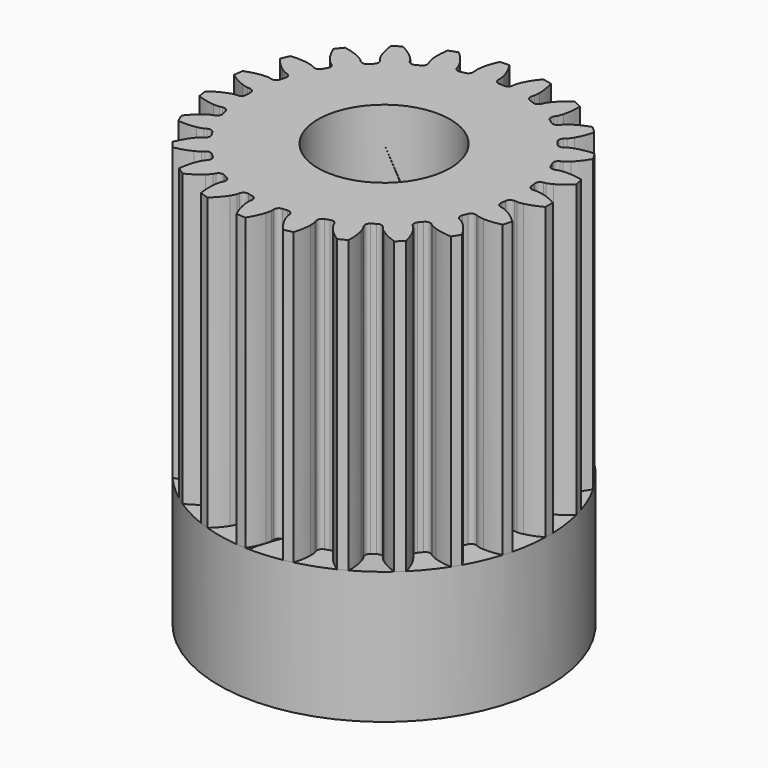
from build123d import *

# Parameters (mm, degrees)
PAD003_DEPTH         = 11
SKETCH005_R          = 6.25
PAD005_DEPTH         = 5
SKETCH003_R          = 2.5
POCKET003_DEPTH      = 16.001
POCKET003_DEPTH_BACK = 0.001
SKETCH006_R          = 1.5
POCKET004_DEPTH      = 6.251


with BuildPart() as part:
    # InvoluteGear002 → Pad003 (new body)
    with BuildSketch(Plane.XY.offset(-11)):
        with BuildLine():
            Line((5.296615, -0.441697), (5.393928, -0.449437))
            add(Edge.make_bspline(
                [(5.393928, -0.449437), (5.418724, -0.450045), (5.493399, -0.448978), (5.617857, -0.422456)],
                knots=[0, 0, 0, 0, 1, 1, 1, 1], degree=3))
            add(Edge.make_bspline(
                [(5.617857, -0.422456), (5.766875, -0.390268), (5.981788, -0.321885), (6.248006, -0.177523)],
                knots=[0, 0, 0, 0, 1, 1, 1, 1], degree=3))
            ThreePointArc((6.248006, -0.177523), (6.250264, 0.000101), (6.247473, 0.177717))
            add(Edge.make_bspline(
                [(6.247473, 0.177717), (5.981788, 0.321885), (5.766875, 0.390268), (5.617857, 0.422456)],
                knots=[0, 0, 0, 0, 1, 1, 1, 1], degree=3))
            add(Edge.make_bspline(
                [(5.617857, 0.422456), (5.493399, 0.448978), (5.418724, 0.450045), (5.393928, 0.449437)],
                knots=[0, 0, 0, 0, 1, 1, 1, 1], degree=3))
            Line((5.393928, 0.449437), (5.296615, 0.441697))
            ThreePointArc((5.296615, 0.441697), (5.15869, 0.482412), (5.088796, 0.608093))
            ThreePointArc((5.088796, 0.608093), (5.077265, 0.697854), (5.064152, 0.787397))
            ThreePointArc((5.064152, 0.787397), (5.097545, 0.927275), (5.21937, 1.003692))
            Line((5.21937, 1.003692), (5.315163, 1.022494))
            add(Edge.make_bspline(
                [(5.315163, 1.022494), (5.339203, 1.028598), (5.410822, 1.049773), (5.523509, 1.10889)],
                knots=[0, 0, 0, 0, 1, 1, 1, 1], degree=3))
            add(Edge.make_bspline(
                [(5.523509, 1.10889), (5.658317, 1.180089), (5.846811, 1.303918), (6.064208, 1.514751)],
                knots=[0, 0, 0, 0, 1, 1, 1, 1], degree=3))
            ThreePointArc((6.064208, 1.514751), (6.01846, 1.686398), (5.967852, 1.856675))
            add(Edge.make_bspline(
                [(5.967852, 1.856675), (5.673124, 1.923816), (5.447731, 1.93168), (5.295555, 1.92247)],
                knots=[0, 0, 0, 0, 1, 1, 1, 1], degree=3))
            add(Edge.make_bspline(
                [(5.295555, 1.92247), (5.168556, 1.91443), (5.096362, 1.89531), (5.07265, 1.888035)],
                knots=[0, 0, 0, 0, 1, 1, 1, 1], degree=3))
            Line((5.07265, 1.888035), (4.981033, 1.854328))
            ThreePointArc((4.981033, 1.854328), (4.837238, 1.85632), (4.736028, 1.958484))
            ThreePointArc((4.736028, 1.958484), (4.700708, 2.041806), (4.663922, 2.12449))
            ThreePointArc((4.663922, 2.12449), (4.658338, 2.26819), (4.755029, 2.374641))
            Line((4.755029, 2.374641), (4.842197, 2.418591))
            add(Edge.make_bspline(
                [(4.842197, 2.418591), (4.863699, 2.430955), (4.926948, 2.470667), (5.019508, 2.557994)],
                knots=[0, 0, 0, 0, 1, 1, 1, 1], degree=3))
            add(Edge.make_bspline(
                [(5.019508, 2.557994), (5.130107, 2.662923), (5.278203, 2.833016), (5.430656, 3.094684)],
                knots=[0, 0, 0, 0, 1, 1, 1, 1], degree=3))
            ThreePointArc((5.430656, 3.094684), (5.340294, 3.247623), (5.245623, 3.397931))
            add(Edge.make_bspline(
                [(5.245623, 3.397931), (4.94371, 3.383066), (4.724553, 3.329828), (4.580505, 3.279903)],
                knots=[0, 0, 0, 0, 1, 1, 1, 1], degree=3))
            add(Edge.make_bspline(
                [(4.580505, 3.279903), (4.460385, 3.237897), (4.396027, 3.200009), (4.375157, 3.186606)],
                knots=[0, 0, 0, 0, 1, 1, 1, 1], degree=3))
            Line((4.375157, 3.186606), (4.296032, 3.129431))
            ThreePointArc((4.296032, 3.129431), (4.157031, 3.092554), (4.032011, 3.163624))
            ThreePointArc((4.032011, 3.163624), (3.97552, 3.234326), (3.91779, 3.304019))
            ThreePointArc((3.91779, 3.304019), (3.873644, 3.440884), (3.938029, 3.569475))
            Line((3.938029, 3.569475), (4.010107, 3.635312))
            add(Edge.make_bspline(
                [(4.010107, 3.635312), (4.027476, 3.653019), (4.077666, 3.708322), (4.143232, 3.817384)],
                knots=[0, 0, 0, 0, 1, 1, 1, 1], degree=3))
            add(Edge.make_bspline(
                [(4.143232, 3.817384), (4.22142, 3.948261), (4.318134, 4.152002), (4.394336, 4.445098)],
                knots=[0, 0, 0, 0, 1, 1, 1, 1], degree=3))
            ThreePointArc((4.394336, 4.445098), (4.266064, 4.567986), (4.13435, 4.687179))
            add(Edge.make_bspline(
                [(4.13435, 4.687179), (3.847643, 4.59141), (3.650977, 4.481018), (3.52574, 4.394081)],
                knots=[0, 0, 0, 0, 1, 1, 1, 1], degree=3))
            add(Edge.make_bspline(
                [(3.52574, 4.394081), (3.421408, 4.321225), (3.369658, 4.267377), (3.353178, 4.248841)],
                knots=[0, 0, 0, 0, 1, 1, 1, 1], degree=3))
            Line((3.353178, 4.248841), (3.292413, 4.172439))
            ThreePointArc((3.292413, 4.172439), (3.168516, 4.099428), (3.028957, 4.134131))
            ThreePointArc((3.028957, 4.134131), (2.955487, 4.186971), (2.881094, 4.238505))
            ThreePointArc((2.881094, 4.238505), (2.801659, 4.358384), (2.828964, 4.499576))
            Line((2.828964, 4.499576), (2.880606, 4.582419))
            add(Edge.make_bspline(
                [(2.880606, 4.582419), (2.892553, 4.604155), (2.925962, 4.670949), (2.959672, 4.793655)],
                knots=[0, 0, 0, 0, 1, 1, 1, 1], degree=3))
            add(Edge.make_bspline(
                [(2.959672, 4.793655), (2.999651, 4.940774), (3.037809, 5.163053), (3.032109, 5.46584)],
                knots=[0, 0, 0, 0, 1, 1, 1, 1], degree=3))
            ThreePointArc((3.032109, 5.46584), (2.875439, 5.549563), (2.716452, 5.6288))
            add(Edge.make_bspline(
                [(2.716452, 5.6288), (2.466215, 5.45923), (2.306625, 5.299872), (2.209487, 5.18237)],
                knots=[0, 0, 0, 0, 1, 1, 1, 1], degree=3))
            add(Edge.make_bspline(
                [(2.209487, 5.18237), (2.12868, 5.084067), (2.093377, 5.018254), (2.082509, 4.995959)],
                knots=[0, 0, 0, 0, 1, 1, 1, 1], degree=3))
            Line((2.082509, 4.995959), (2.044611, 4.905996))
            ThreePointArc((2.044611, 4.905996), (1.945007, 4.802265), (1.80126, 4.798029))
            ThreePointArc((1.80126, 4.798029), (1.716258, 4.829087), (1.630721, 4.858639))
            ThreePointArc((1.630721, 4.858639), (1.521888, 4.952642), (1.510087, 5.095965))
            Line((1.510087, 5.095965), (1.537464, 5.189669))
            add(Edge.make_bspline(
                [(1.537464, 5.189669), (1.543103, 5.213822), (1.557252, 5.287152), (1.556607, 5.414403)],
                knots=[0, 0, 0, 0, 1, 1, 1, 1], degree=3))
            add(Edge.make_bspline(
                [(1.556607, 5.414403), (1.55541, 5.566853), (1.532184, 5.791184), (1.445005, 6.081205)],
                knots=[0, 0, 0, 0, 1, 1, 1, 1], degree=3))
            ThreePointArc((1.445005, 6.081205), (1.271555, 6.119554), (1.097086, 6.152959))
            add(Edge.make_bspline(
                [(1.097086, 6.152959), (0.901878, 5.922163), (0.7912, 5.725658), (0.729367, 5.586306)],
                knots=[0, 0, 0, 0, 1, 1, 1, 1], degree=3))
            add(Edge.make_bspline(
                [(0.729367, 5.586306), (0.678078, 5.469847), (0.66184, 5.39695), (0.657391, 5.37255)],
                knots=[0, 0, 0, 0, 1, 1, 1, 1], degree=3))
            Line((0.657391, 5.37255), (0.645169, 5.275697))
            ThreePointArc((0.645169, 5.275697), (0.577245, 5.148941), (0.439972, 5.10608))
            ThreePointArc((0.439972, 5.10608), (0.349742, 5.113052), (0.259404, 5.118431))
            ThreePointArc((0.259404, 5.118431), (0.129246, 5.179585), (0.079214, 5.31441))
            Line((0.079214, 5.31441), (0.080295, 5.412024))
            add(Edge.make_bspline(
                [(0.080295, 5.412024), (0.079209, 5.436803), (0.073048, 5.511232), (0.038095, 5.63359)],
                knots=[0, 0, 0, 0, 1, 1, 1, 1], degree=3))
            add(Edge.make_bspline(
                [(0.038095, 5.63359), (-0.004188, 5.780064), (-0.087077, 5.98981), (-0.249269, 6.245555)],
                knots=[0, 0, 0, 0, 1, 1, 1, 1], degree=3))
            ThreePointArc((-0.249269, 6.245555), (-0.426633, 6.235686), (-0.603645, 6.220781))
            add(Edge.make_bspline(
                [(-0.603645, 6.220781), (-0.729347, 5.945877), (-0.782903, 5.726798), (-0.804847, 5.575931)],
                knots=[0, 0, 0, 0, 1, 1, 1, 1], degree=3))
            add(Edge.make_bspline(
                [(-0.804847, 5.575931), (-0.822814, 5.449953), (-0.818782, 5.375379), (-0.816484, 5.350683)],
                knots=[0, 0, 0, 0, 1, 1, 1, 1], degree=3))
            Line((-0.816484, 5.350683), (-0.802121, 5.254125))
            ThreePointArc((-0.802121, 5.254125), (-0.833329, 5.113743), (-0.953947, 5.035435))
            ThreePointArc((-0.953947, 5.035435), (-1.042712, 5.017806), (-1.131152, 4.998612))
            ThreePointArc((-1.131152, 4.998612), (-1.272982, 5.022382), (-1.357534, 5.138709))
            Line((-1.357534, 5.138709), (-1.38283, 5.232995))
            add(Edge.make_bspline(
                [(-1.38283, 5.232995), (-1.390561, 5.256562), (-1.416573, 5.326569), (-1.483242, 5.434959)],
                knots=[0, 0, 0, 0, 1, 1, 1, 1], degree=3))
            add(Edge.make_bspline(
                [(-1.483242, 5.434959), (-1.563475, 5.564594), (-1.699879, 5.744198), (-1.925056, 5.946701)],
                knots=[0, 0, 0, 0, 1, 1, 1, 1], degree=3))
            ThreePointArc((-1.925056, 5.946701), (-2.093181, 5.889346), (-2.259607, 5.827236))
            add(Edge.make_bspline(
                [(-2.259607, 5.827236), (-2.306479, 5.528613), (-2.298943, 5.303208), (-2.27937, 5.152015)],
                knots=[0, 0, 0, 0, 1, 1, 1, 1], degree=3))
            add(Edge.make_bspline(
                [(-2.27937, 5.152015), (-2.262682, 5.025862), (-2.238679, 4.955141), (-2.229803, 4.931981)],
                knots=[0, 0, 0, 0, 1, 1, 1, 1], degree=3))
            Line((-2.229803, 4.931981), (-2.189922, 4.842878))
            ThreePointArc((-2.189922, 4.842878), (-2.182098, 4.699282), (-2.277117, 4.591336))
            ThreePointArc((-2.277117, 4.591336), (-2.357833, 4.550412), (-2.437815, 4.508069))
            ThreePointArc((-2.437815, 4.508069), (-2.580799, 4.492692), (-2.6936, 4.581893))
            Line((-2.6936, 4.581893), (-2.743396, 4.665858))
            add(Edge.make_bspline(
                [(-2.743396, 4.665858), (-2.757198, 4.686466), (-2.801134, 4.746858), (-2.894574, 4.833242)],
                knots=[0, 0, 0, 0, 1, 1, 1, 1], degree=3))
            add(Edge.make_bspline(
                [(-2.894574, 4.833242), (-3.006806, 4.936423), (-3.186609, 5.072566), (-3.458071, 5.206807)],
                knots=[0, 0, 0, 0, 1, 1, 1, 1], degree=3))
            ThreePointArc((-3.458071, 5.206807), (-3.604486, 5.106219), (-3.747984, 5.001511))
            add(Edge.make_bspline(
                [(-3.747984, 5.001511), (-3.71255, 4.701316), (-3.64448, 4.486303), (-3.584842, 4.345998)],
                knots=[0, 0, 0, 0, 1, 1, 1, 1], degree=3))
            add(Edge.make_bspline(
                [(-3.584842, 4.345998), (-3.534737, 4.229025), (-3.492544, 4.167402), (-3.477749, 4.147496)],
                knots=[0, 0, 0, 0, 1, 1, 1, 1], degree=3))
            Line((-3.477749, 4.147496), (-3.415307, 4.072457))
            ThreePointArc((-3.415307, 4.072457), (-3.369031, 3.936297), (-3.431403, 3.806718))
            ThreePointArc((-3.431403, 3.806718), (-3.498085, 3.745534), (-3.563676, 3.683183))
            ThreePointArc((-3.563676, 3.683183), (-3.69721, 3.629799), (-3.829894, 3.685259))
            Line((-3.829894, 3.685259), (-3.900497, 3.752676))
            add(Edge.make_bspline(
                [(-3.900497, 3.752676), (-3.919347, 3.768796), (-3.977947, 3.815095), (-4.091228, 3.873066)],
                knots=[0, 0, 0, 0, 1, 1, 1, 1], degree=3))
            add(Edge.make_bspline(
                [(-4.091228, 3.873066), (-4.227137, 3.94214), (-4.437003, 4.024725), (-4.734616, 4.080748)],
                knots=[0, 0, 0, 0, 1, 1, 1, 1], degree=3))
            ThreePointArc((-4.734616, 4.080748), (-4.848464, 3.944388), (-4.95839, 3.804848))
            add(Edge.make_bspline(
                [(-4.95839, 3.804848), (-4.843279, 3.525345), (-4.719723, 3.33667), (-4.624442, 3.217658)],
                knots=[0, 0, 0, 0, 1, 1, 1, 1], degree=3))
            add(Edge.make_bspline(
                [(-4.624442, 3.217658), (-4.544636, 3.118541), (-4.487383, 3.070587), (-4.467765, 3.05541)],
                knots=[0, 0, 0, 0, 1, 1, 1, 1], degree=3))
            Line((-4.467765, 3.05541), (-4.387394, 3))
            ThreePointArc((-4.387394, 3), (-4.306098, 2.881375), (-4.331197, 2.739773))
            ThreePointArc((-4.331197, 2.739773), (-4.378899, 2.662868), (-4.425236, 2.585132))
            ThreePointArc((-4.425236, 2.585132), (-4.539415, 2.497701), (-4.682142, 2.515307))
            Line((-4.682142, 2.515307), (-4.768316, 2.561176))
            add(Edge.make_bspline(
                [(-4.768316, 2.561176), (-4.790816, 2.571611), (-4.859735, 2.600384), (-4.984455, 2.625642)],
                knots=[0, 0, 0, 0, 1, 1, 1, 1], degree=3))
            add(Edge.make_bspline(
                [(-4.984455, 2.625642), (-5.13396, 2.655487), (-5.358325, 2.678388), (-5.660016, 2.652039)],
                knots=[0, 0, 0, 0, 1, 1, 1, 1], degree=3))
            ThreePointArc((-5.660016, 2.652039), (-5.732853, 2.49002), (-5.801055, 2.325996))
            add(Edge.make_bspline(
                [(-5.801055, 2.325996), (-5.614803, 2.087914), (-5.444926, 1.939571), (-5.321069, 1.850679)],
                knots=[0, 0, 0, 0, 1, 1, 1, 1], degree=3))
            add(Edge.make_bspline(
                [(-5.321069, 1.850679), (-5.217481, 1.776769), (-5.149413, 1.746039), (-5.126428, 1.736718)],
                knots=[0, 0, 0, 0, 1, 1, 1, 1], degree=3))
            Line((-5.126428, 1.736718), (-5.034088, 1.705047))
            ThreePointArc((-5.034088, 1.705047), (-4.923802, 1.612754), (-4.909767, 1.469632))
            ThreePointArc((-4.909767, 1.469632), (-4.934951, 1.382708), (-4.958597, 1.295354))
            ThreePointArc((-4.958597, 1.295354), (-5.044953, 1.18036), (-5.187137, 1.158806))
            Line((-5.187137, 1.158806), (-5.282491, 1.179724))
            add(Edge.make_bspline(
                [(-5.282491, 1.179724), (-5.306972, 1.183702), (-5.381098, 1.192814), (-5.508008, 1.183486)],
                knots=[0, 0, 0, 0, 1, 1, 1, 1], degree=3))
            add(Edge.make_bspline(
                [(-5.508008, 1.183486), (-5.660021, 1.171889), (-5.882244, 1.133407), (-6.165639, 1.02664)],
                knots=[0, 0, 0, 0, 1, 1, 1, 1], degree=3))
            ThreePointArc((-6.165639, 1.02664), (-6.192062, 0.850978), (-6.213483, 0.674636))
            add(Edge.make_bspline(
                [(-6.213483, 0.674636), (-5.969904, 0.495633), (-5.766303, 0.398623), (-5.623057, 0.346444)],
                knots=[0, 0, 0, 0, 1, 1, 1, 1], degree=3))
            add(Edge.make_bspline(
                [(-5.623057, 0.346444), (-5.503369, 0.303222), (-5.429534, 0.291997), (-5.404887, 0.289222)],
                knots=[0, 0, 0, 0, 1, 1, 1, 1], degree=3))
            Line((-5.404887, 0.289222), (-5.307426, 0.283639))
            ThreePointArc((-5.307426, 0.283639), (-5.17633, 0.224523), (-5.124201, 0.090495))
            ThreePointArc((-5.124201, 0.090495), (-5.125, 0), (-5.124201, -0.090495))
            ThreePointArc((-5.124201, -0.090495), (-5.17633, -0.224523), (-5.307426, -0.283639))
            Line((-5.307426, -0.283639), (-5.404887, -0.289222))
            add(Edge.make_bspline(
                [(-5.404887, -0.289222), (-5.429534, -0.291997), (-5.503369, -0.303222), (-5.623057, -0.346444)],
                knots=[0, 0, 0, 0, 1, 1, 1, 1], degree=3))
            add(Edge.make_bspline(
                [(-5.623057, -0.346444), (-5.766303, -0.398623), (-5.969904, -0.495633), (-6.213984, -0.6749)],
                knots=[0, 0, 0, 0, 1, 1, 1, 1], degree=3))
            ThreePointArc((-6.213984, -0.6749), (-6.192035, -0.851177), (-6.165084, -1.026759))
            add(Edge.make_bspline(
                [(-6.165084, -1.026759), (-5.882244, -1.133407), (-5.660021, -1.171889), (-5.508008, -1.183486)],
                knots=[0, 0, 0, 0, 1, 1, 1, 1], degree=3))
            add(Edge.make_bspline(
                [(-5.508008, -1.183486), (-5.381098, -1.192814), (-5.306972, -1.183702), (-5.282491, -1.179724)],
                knots=[0, 0, 0, 0, 1, 1, 1, 1], degree=3))
            Line((-5.282491, -1.179724), (-5.187137, -1.158806))
            ThreePointArc((-5.187137, -1.158806), (-5.044953, -1.18036), (-4.958597, -1.295354))
            ThreePointArc((-4.958597, -1.295354), (-4.934951, -1.382708), (-4.909767, -1.469632))
            ThreePointArc((-4.909767, -1.469632), (-4.923802, -1.612754), (-5.034088, -1.705047))
            Line((-5.034088, -1.705047), (-5.126428, -1.736718))
            add(Edge.make_bspline(
                [(-5.126428, -1.736718), (-5.149413, -1.746039), (-5.217481, -1.776769), (-5.321069, -1.850679)],
                knots=[0, 0, 0, 0, 1, 1, 1, 1], degree=3))
            add(Edge.make_bspline(
                [(-5.321069, -1.850679), (-5.444926, -1.939571), (-5.614803, -2.087914), (-5.801467, -2.326386)],
                knots=[0, 0, 0, 0, 1, 1, 1, 1], degree=3))
            ThreePointArc((-5.801467, -2.326386), (-5.732772, -2.490204), (-5.65945, -2.652004))
            add(Edge.make_bspline(
                [(-5.65945, -2.652004), (-5.358325, -2.678388), (-5.13396, -2.655487), (-4.984455, -2.625642)],
                knots=[0, 0, 0, 0, 1, 1, 1, 1], degree=3))
            add(Edge.make_bspline(
                [(-4.984455, -2.625642), (-4.859735, -2.600384), (-4.790816, -2.571611), (-4.768316, -2.561176)],
                knots=[0, 0, 0, 0, 1, 1, 1, 1], degree=3))
            Line((-4.768316, -2.561176), (-4.682142, -2.515307))
            ThreePointArc((-4.682142, -2.515307), (-4.539415, -2.497701), (-4.425236, -2.585132))
            ThreePointArc((-4.425236, -2.585132), (-4.378899, -2.662868), (-4.331197, -2.739773))
            ThreePointArc((-4.331197, -2.739773), (-4.306098, -2.881375), (-4.387394, -3))
            Line((-4.387394, -3), (-4.467765, -3.05541))
            add(Edge.make_bspline(
                [(-4.467765, -3.05541), (-4.487383, -3.070587), (-4.544636, -3.118541), (-4.624442, -3.217658)],
                knots=[0, 0, 0, 0, 1, 1, 1, 1], degree=3))
            add(Edge.make_bspline(
                [(-4.624442, -3.217658), (-4.719723, -3.33667), (-4.843279, -3.525345), (-4.958681, -3.805334)],
                knots=[0, 0, 0, 0, 1, 1, 1, 1], degree=3))
            ThreePointArc((-4.958681, -3.805334), (-4.848337, -3.944544), (-4.73408, -4.080562))
            add(Edge.make_bspline(
                [(-4.73408, -4.080562), (-4.437003, -4.024725), (-4.227137, -3.94214), (-4.091228, -3.873066)],
                knots=[0, 0, 0, 0, 1, 1, 1, 1], degree=3))
            add(Edge.make_bspline(
                [(-4.091228, -3.873066), (-3.977947, -3.815095), (-3.919347, -3.768796), (-3.900497, -3.752676)],
                knots=[0, 0, 0, 0, 1, 1, 1, 1], degree=3))
            Line((-3.900497, -3.752676), (-3.829894, -3.685259))
            ThreePointArc((-3.829894, -3.685259), (-3.69721, -3.629799), (-3.563676, -3.683183))
            ThreePointArc((-3.563676, -3.683183), (-3.498085, -3.745534), (-3.431403, -3.806718))
            ThreePointArc((-3.431403, -3.806718), (-3.369031, -3.936297), (-3.415307, -4.072457))
            Line((-3.415307, -4.072457), (-3.477749, -4.147496))
            add(Edge.make_bspline(
                [(-3.477749, -4.147496), (-3.492544, -4.167402), (-3.534737, -4.229025), (-3.584842, -4.345998)],
                knots=[0, 0, 0, 0, 1, 1, 1, 1], degree=3))
            add(Edge.make_bspline(
                [(-3.584842, -4.345998), (-3.64448, -4.486303), (-3.71255, -4.701316), (-3.748133, -5.002058)],
                knots=[0, 0, 0, 0, 1, 1, 1, 1], degree=3))
            ThreePointArc((-3.748133, -5.002058), (-3.604322, -5.106335), (-3.457605, -5.206483))
            add(Edge.make_bspline(
                [(-3.457605, -5.206483), (-3.186609, -5.072566), (-3.006806, -4.936423), (-2.894574, -4.833242)],
                knots=[0, 0, 0, 0, 1, 1, 1, 1], degree=3))
            add(Edge.make_bspline(
                [(-2.894574, -4.833242), (-2.801134, -4.746858), (-2.757198, -4.686466), (-2.743396, -4.665858)],
                knots=[0, 0, 0, 0, 1, 1, 1, 1], degree=3))
            Line((-2.743396, -4.665858), (-2.6936, -4.581893))
            ThreePointArc((-2.6936, -4.581893), (-2.580799, -4.492692), (-2.437815, -4.508069))
            ThreePointArc((-2.437815, -4.508069), (-2.357833, -4.550412), (-2.277117, -4.591336))
            ThreePointArc((-2.277117, -4.591336), (-2.182098, -4.699282), (-2.189922, -4.842878))
            Line((-2.189922, -4.842878), (-2.229803, -4.931981))
            add(Edge.make_bspline(
                [(-2.229803, -4.931981), (-2.238679, -4.955141), (-2.262682, -5.025862), (-2.27937, -5.152015)],
                knots=[0, 0, 0, 0, 1, 1, 1, 1], degree=3))
            add(Edge.make_bspline(
                [(-2.27937, -5.152015), (-2.298943, -5.303208), (-2.306479, -5.528613), (-2.259603, -5.827803)],
                knots=[0, 0, 0, 0, 1, 1, 1, 1], degree=3))
            ThreePointArc((-2.259603, -5.827803), (-2.092991, -5.889413), (-1.924696, -5.946263))
            add(Edge.make_bspline(
                [(-1.924696, -5.946263), (-1.699879, -5.744198), (-1.563475, -5.564594), (-1.483242, -5.434959)],
                knots=[0, 0, 0, 0, 1, 1, 1, 1], degree=3))
            add(Edge.make_bspline(
                [(-1.483242, -5.434959), (-1.416573, -5.326569), (-1.390561, -5.256562), (-1.38283, -5.232995)],
                knots=[0, 0, 0, 0, 1, 1, 1, 1], degree=3))
            Line((-1.38283, -5.232995), (-1.357534, -5.138709))
            ThreePointArc((-1.357534, -5.138709), (-1.272982, -5.022382), (-1.131152, -4.998612))
            ThreePointArc((-1.131152, -4.998612), (-1.042712, -5.017806), (-0.953947, -5.035435))
            ThreePointArc((-0.953947, -5.035435), (-0.833329, -5.113743), (-0.802121, -5.254125))
            Line((-0.802121, -5.254125), (-0.816484, -5.350683))
            add(Edge.make_bspline(
                [(-0.816484, -5.350683), (-0.818782, -5.375379), (-0.822814, -5.449953), (-0.804847, -5.575931)],
                knots=[0, 0, 0, 0, 1, 1, 1, 1], degree=3))
            add(Edge.make_bspline(
                [(-0.804847, -5.575931), (-0.782903, -5.726798), (-0.729347, -5.945877), (-0.603489, -6.221325)],
                knots=[0, 0, 0, 0, 1, 1, 1, 1], degree=3))
            ThreePointArc((-0.603489, -6.221325), (-0.426433, -6.2357), (-0.24904, -6.245036))
            add(Edge.make_bspline(
                [(-0.24904, -6.245036), (-0.087077, -5.98981), (-0.004188, -5.780064), (0.038095, -5.63359)],
                knots=[0, 0, 0, 0, 1, 1, 1, 1], degree=3))
            add(Edge.make_bspline(
                [(0.038095, -5.63359), (0.073048, -5.511232), (0.079209, -5.436803), (0.080295, -5.412024)],
                knots=[0, 0, 0, 0, 1, 1, 1, 1], degree=3))
            Line((0.080295, -5.412024), (0.079214, -5.31441))
            ThreePointArc((0.079214, -5.31441), (0.129246, -5.179585), (0.259404, -5.118431))
            ThreePointArc((0.259404, -5.118431), (0.349742, -5.113052), (0.439972, -5.10608))
            ThreePointArc((0.439972, -5.10608), (0.577245, -5.148941), (0.645169, -5.275697))
            Line((0.645169, -5.275697), (0.657391, -5.37255))
            add(Edge.make_bspline(
                [(0.657391, -5.37255), (0.66184, -5.39695), (0.678078, -5.469847), (0.729367, -5.586306)],
                knots=[0, 0, 0, 0, 1, 1, 1, 1], degree=3))
            add(Edge.make_bspline(
                [(0.729367, -5.586306), (0.7912, -5.725658), (0.901878, -5.922163), (1.097384, -6.153441)],
                knots=[0, 0, 0, 0, 1, 1, 1, 1], degree=3))
            ThreePointArc((1.097384, -6.153441), (1.271752, -6.119513), (1.445086, -6.080644))
            add(Edge.make_bspline(
                [(1.445086, -6.080644), (1.532184, -5.791184), (1.55541, -5.566853), (1.556607, -5.414403)],
                knots=[0, 0, 0, 0, 1, 1, 1, 1], degree=3))
            add(Edge.make_bspline(
                [(1.556607, -5.414403), (1.557252, -5.287152), (1.543103, -5.213822), (1.537464, -5.189669)],
                knots=[0, 0, 0, 0, 1, 1, 1, 1], degree=3))
            Line((1.537464, -5.189669), (1.510087, -5.095965))
            ThreePointArc((1.510087, -5.095965), (1.521888, -4.952642), (1.630721, -4.858639))
            ThreePointArc((1.630721, -4.858639), (1.716258, -4.829087), (1.80126, -4.798029))
            ThreePointArc((1.80126, -4.798029), (1.945007, -4.802265), (2.044611, -4.905996))
            Line((2.044611, -4.905996), (2.082509, -4.995959))
            add(Edge.make_bspline(
                [(2.082509, -4.995959), (2.093377, -5.018254), (2.12868, -5.084067), (2.209487, -5.18237)],
                knots=[0, 0, 0, 0, 1, 1, 1, 1], degree=3))
            add(Edge.make_bspline(
                [(2.209487, -5.18237), (2.306625, -5.299872), (2.466215, -5.45923), (2.716868, -5.629184)],
                knots=[0, 0, 0, 0, 1, 1, 1, 1], degree=3))
            ThreePointArc((2.716868, -5.629184), (2.875617, -5.54947), (3.032036, -5.465277))
            add(Edge.make_bspline(
                [(3.032036, -5.465277), (3.037809, -5.163053), (2.999651, -4.940774), (2.959672, -4.793655)],
                knots=[0, 0, 0, 0, 1, 1, 1, 1], degree=3))
            add(Edge.make_bspline(
                [(2.959672, -4.793655), (2.925962, -4.670949), (2.892553, -4.604155), (2.880606, -4.582419)],
                knots=[0, 0, 0, 0, 1, 1, 1, 1], degree=3))
            Line((2.880606, -4.582419), (2.828964, -4.499576))
            ThreePointArc((2.828964, -4.499576), (2.801659, -4.358384), (2.881094, -4.238505))
            ThreePointArc((2.881094, -4.238505), (2.955487, -4.186971), (3.028957, -4.134131))
            ThreePointArc((3.028957, -4.134131), (3.168516, -4.099428), (3.292413, -4.172439))
            Line((3.292413, -4.172439), (3.353178, -4.248841))
            add(Edge.make_bspline(
                [(3.353178, -4.248841), (3.369658, -4.267377), (3.421408, -4.321225), (3.52574, -4.394081)],
                knots=[0, 0, 0, 0, 1, 1, 1, 1], degree=3))
            add(Edge.make_bspline(
                [(3.52574, -4.394081), (3.650977, -4.481018), (3.847643, -4.59141), (4.134855, -4.687436)],
                knots=[0, 0, 0, 0, 1, 1, 1, 1], degree=3))
            ThreePointArc((4.134855, -4.687436), (4.266211, -4.567849), (4.394114, -4.444577))
            add(Edge.make_bspline(
                [(4.394114, -4.444577), (4.318134, -4.152002), (4.22142, -3.948261), (4.143232, -3.817384)],
                knots=[0, 0, 0, 0, 1, 1, 1, 1], degree=3))
            add(Edge.make_bspline(
                [(4.143232, -3.817384), (4.077666, -3.708322), (4.027476, -3.653019), (4.010107, -3.635312)],
                knots=[0, 0, 0, 0, 1, 1, 1, 1], degree=3))
            Line((4.010107, -3.635312), (3.938029, -3.569475))
            ThreePointArc((3.938029, -3.569475), (3.873644, -3.440884), (3.91779, -3.304019))
            ThreePointArc((3.91779, -3.304019), (3.97552, -3.234326), (4.032011, -3.163624))
            ThreePointArc((4.032011, -3.163624), (4.157031, -3.092554), (4.296032, -3.129431))
            Line((4.296032, -3.129431), (4.375157, -3.186606))
            add(Edge.make_bspline(
                [(4.375157, -3.186606), (4.396027, -3.200009), (4.460385, -3.237897), (4.580505, -3.279903)],
                knots=[0, 0, 0, 0, 1, 1, 1, 1], degree=3))
            add(Edge.make_bspline(
                [(4.580505, -3.279903), (4.724553, -3.329828), (4.94371, -3.383066), (5.246179, -3.398043)],
                knots=[0, 0, 0, 0, 1, 1, 1, 1], degree=3))
            ThreePointArc((5.246179, -3.398043), (5.340399, -3.247451), (5.430301, -3.094242))
            add(Edge.make_bspline(
                [(5.430301, -3.094242), (5.278203, -2.833016), (5.130107, -2.662923), (5.019508, -2.557994)],
                knots=[0, 0, 0, 0, 1, 1, 1, 1], degree=3))
            add(Edge.make_bspline(
                [(5.019508, -2.557994), (4.926948, -2.470667), (4.863699, -2.430955), (4.842197, -2.418591)],
                knots=[0, 0, 0, 0, 1, 1, 1, 1], degree=3))
            Line((4.842197, -2.418591), (4.755029, -2.374641))
            ThreePointArc((4.755029, -2.374641), (4.658338, -2.26819), (4.663922, -2.12449))
            ThreePointArc((4.663922, -2.12449), (4.700708, -2.041806), (4.736028, -1.958484))
            ThreePointArc((4.736028, -1.958484), (4.837238, -1.85632), (4.981033, -1.854328))
            Line((4.981033, -1.854328), (5.07265, -1.888035))
            add(Edge.make_bspline(
                [(5.07265, -1.888035), (5.096362, -1.89531), (5.168556, -1.91443), (5.295555, -1.92247)],
                knots=[0, 0, 0, 0, 1, 1, 1, 1], degree=3))
            add(Edge.make_bspline(
                [(5.295555, -1.92247), (5.447731, -1.93168), (5.673124, -1.923816), (5.968417, -1.856632)],
                knots=[0, 0, 0, 0, 1, 1, 1, 1], degree=3))
            ThreePointArc((5.968417, -1.856632), (6.018514, -1.686204), (6.063747, -1.514421))
            add(Edge.make_bspline(
                [(6.063747, -1.514421), (5.846811, -1.303918), (5.658317, -1.180089), (5.523509, -1.10889)],
                knots=[0, 0, 0, 0, 1, 1, 1, 1], degree=3))
            add(Edge.make_bspline(
                [(5.523509, -1.10889), (5.410822, -1.049773), (5.339203, -1.028598), (5.315163, -1.022494)],
                knots=[0, 0, 0, 0, 1, 1, 1, 1], degree=3))
            Line((5.315163, -1.022494), (5.21937, -1.003692))
            ThreePointArc((5.21937, -1.003692), (5.097545, -0.927275), (5.064152, -0.787397))
            ThreePointArc((5.064152, -0.787397), (5.077265, -0.697854), (5.088796, -0.608093))
            ThreePointArc((5.088796, -0.608093), (5.15869, -0.482412), (5.296615, -0.441697))
        make_face()
    extrude(amount=PAD003_DEPTH)

    # Sketch005 → Pad005 (join)
    with BuildSketch(Plane.XY.offset(-11)):
        Circle(SKETCH005_R)
    extrude(amount=-PAD005_DEPTH)

    # Sketch003 → Pocket003 (cut, two sides)
    with BuildSketch(Plane.XY) as pocket003_sk:
        Circle(SKETCH003_R)
    extrude(amount=-POCKET003_DEPTH, mode=Mode.SUBTRACT)
    extrude(pocket003_sk.sketch, amount=POCKET003_DEPTH_BACK, mode=Mode.SUBTRACT)

    # Sketch006 → Pocket004 (cut, through all)
    with BuildSketch(Plane.XZ):
        with Locations((0, -13.5)):
            Circle(SKETCH006_R)
    extrude(amount=-POCKET004_DEPTH, mode=Mode.SUBTRACT)


solid = part.part
